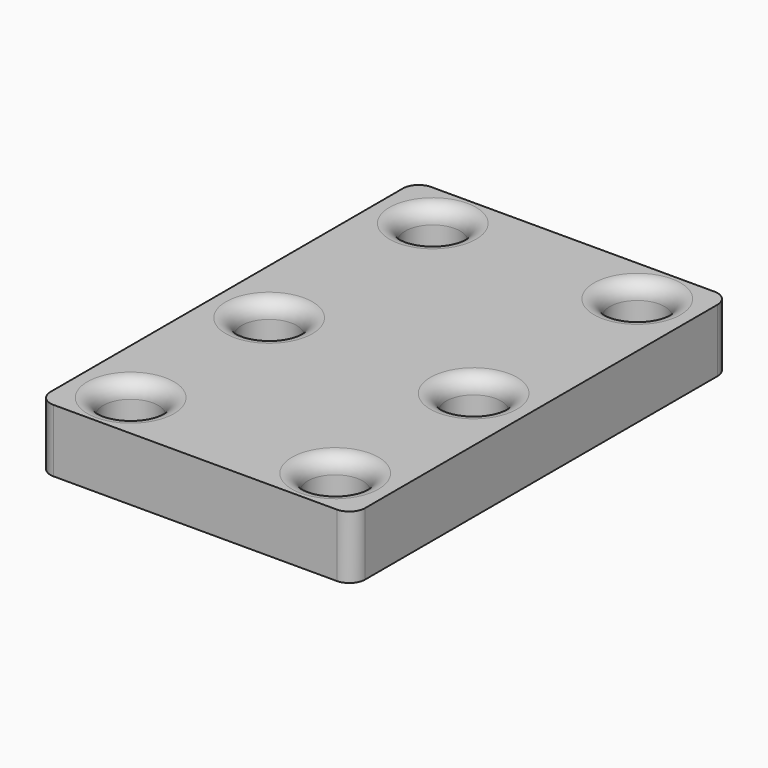
from build123d import *

# Parameters (mm, degrees)
F0_W     = 20
F0_H     = 30
F0_R     = 1.75
F1_DEPTH = 4
F2_R     = 1
F3_R     = 1


with BuildPart() as f1:
    # F0 (on Top) → F1 (new body)
    with BuildSketch(Plane.XY):
        with Locations((6.5, -12)):
            Rectangle(F0_W, F0_H)
        with Locations((0, -24)):
            Circle(F0_R, mode=Mode.SUBTRACT)
        with Locations((0, -13)):
            Circle(F0_R, mode=Mode.SUBTRACT)
        with Locations((13, -24)):
            Circle(F0_R, mode=Mode.SUBTRACT)
        with Locations((13, -13)):
            Circle(F0_R, mode=Mode.SUBTRACT)
        Circle(F0_R, mode=Mode.SUBTRACT)
        with Locations((13, 0)):
            Circle(F0_R, mode=Mode.SUBTRACT)
    extrude(amount=F1_DEPTH)

    # F2
    f2_edges = [f1.edges().sort_by_distance(p)[0] for p in [
        (-1.75, 0, 4),
        (11.25, 0, 4),
        (11.25, -13, 4),
        (-1.75, -13, 4),
        (-1.75, -24, 4),
        (11.25, -24, 4),
    ]]
    fillet(f2_edges, radius=F2_R)

    # F3
    f3_edges = [f1.edges().sort_by_distance(p)[0] for p in [
        (-3.5, 3, 2),
        (-3.5, -27, 2),
        (16.5, -27, 2),
        (16.5, 3, 2),
    ]]
    fillet(f3_edges, radius=F3_R)


solid = f1.part
